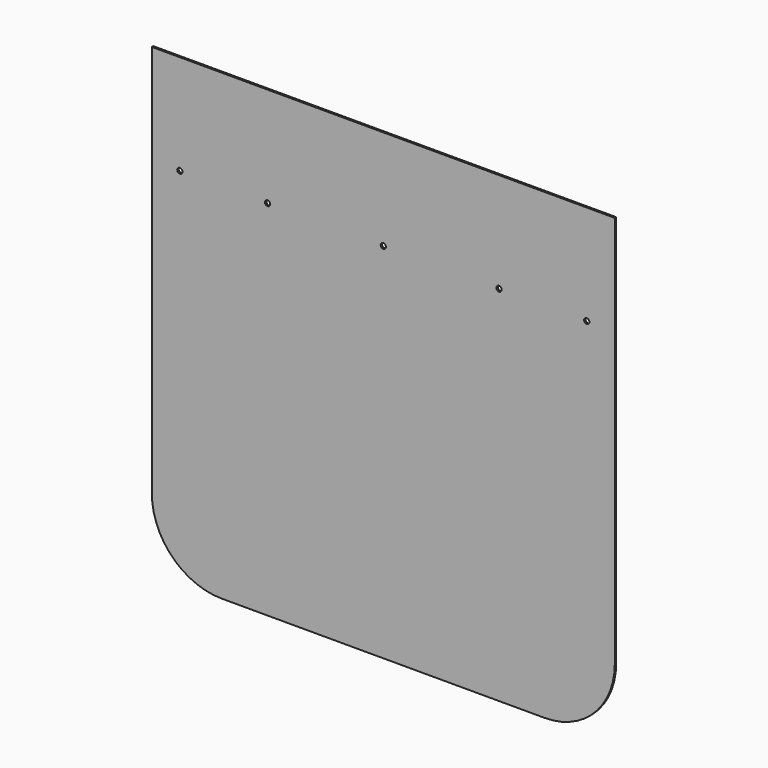
from build123d import *

# Parameters (mm, degrees)
F0_R     = 4.7625
F1_DEPTH = 3.175


with BuildPart() as f1:
    # F0 (on Front) → F1 (new body)
    with BuildSketch(Plane.XZ):
        with BuildLine():
            Line((781.759825, 859.476545), (-56.440175, 859.476545))
            Line((-56.440175, 859.476545), (-56.440175, 148.276545))
            ThreePointArc((-56.440175, 148.276545), (-19.242736, 58.473984), (70.559825, 21.276545))
            Line((70.559825, 21.276545), (654.759825, 21.276545))
            ThreePointArc((654.759825, 21.276545), (744.562387, 58.473984), (781.759825, 148.276545))
            Line((781.759825, 148.276545), (781.759825, 859.476545))
        make_face()
        with Locations((-5.640175, 678.501545)):
            Circle(F0_R, mode=Mode.SUBTRACT)
        with Locations((153.109825, 678.501545)):
            Circle(F0_R, mode=Mode.SUBTRACT)
        with Locations((362.659825, 678.501545)):
            Circle(F0_R, mode=Mode.SUBTRACT)
        with Locations((572.209825, 678.501545)):
            Circle(F0_R, mode=Mode.SUBTRACT)
        with Locations((730.959825, 678.501545)):
            Circle(F0_R, mode=Mode.SUBTRACT)
    extrude(amount=F1_DEPTH)


solid = f1.part
